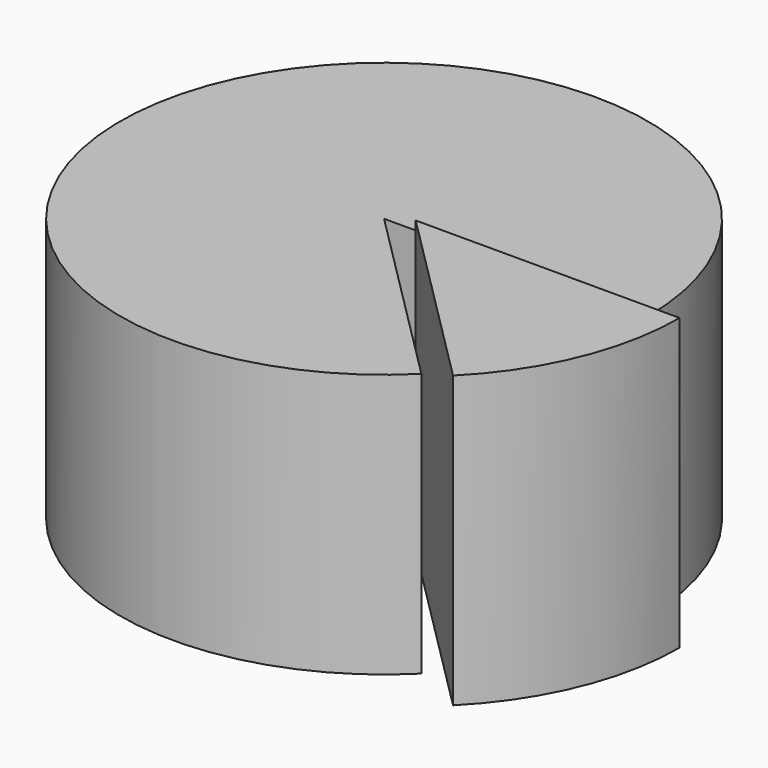
from build123d import *

# Parameters (mm, degrees)
CYLINDER_W                  = 20
CYLINDER_H                  = 20
CYLINDER_ANGLE              = 315
CYLINDER001_W               = 20
CYLINDER001_H               = 22
CYLINDER001_ANGLE           = 45
CYLINDER001_PLACEMENT_ANGLE = 315


with BuildPart() as cilindre:
    # Cylinder → Cylinder (revolve)
    with BuildSketch(Plane.XZ):
        with Locations((10, 10)):
            Rectangle(CYLINDER_W, CYLINDER_H)
    revolve(axis=Axis((0, 0, 0), (0, 0, 1)), revolution_arc=CYLINDER_ANGLE)


with BuildPart() as cilindre001:
    # Cylinder001 → Cylinder001 (revolve)
    with BuildSketch(Plane.XZ):
        with Locations((10, 11)):
            Rectangle(CYLINDER001_W, CYLINDER001_H)
    revolve(axis=Axis((0, 0, 0), (0, 0, 1)), revolution_arc=CYLINDER001_ANGLE)


with BuildPart() as cilindre001_1:
    # Cylinder001 placement: moved
    add(cilindre001.part.moved(Location((4, -2, 0))).rotate(Axis((4, -2, 0), (0, 0, 1)), CYLINDER001_PLACEMENT_ANGLE))


solid = Compound([cilindre.part, cilindre001_1.part])
